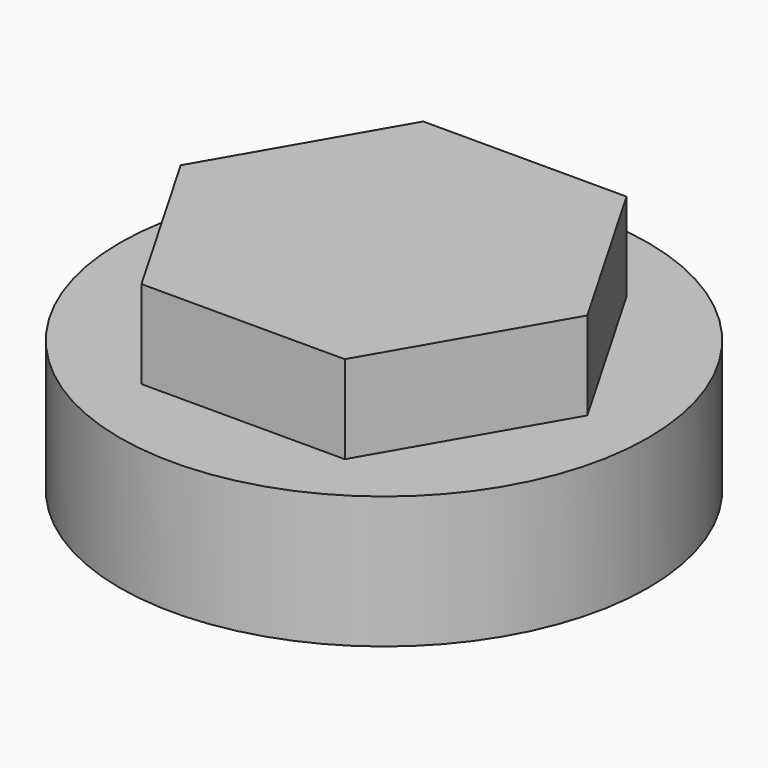
from build123d import *

# Parameters (mm, degrees)
F0_R     = 19.05
F1_DEPTH = 9.525
F3_DEPTH = 6.35


with BuildPart() as f1:
    # F0 (on Top) → F1 (new body)
    with BuildSketch(Plane.XY):
        Circle(F0_R)
    extrude(amount=F1_DEPTH)

    # F2 (on face) → F3 (join)
    with BuildSketch(Plane.XY.offset(9.525)):
        Polygon((7.332348, 12.7), (-7.332348, 12.7), (-14.664697, 0), (-7.332348, -12.7), (7.332348, -12.7), (14.664697, 0), align=None)
    extrude(amount=F3_DEPTH)


solid = f1.part
